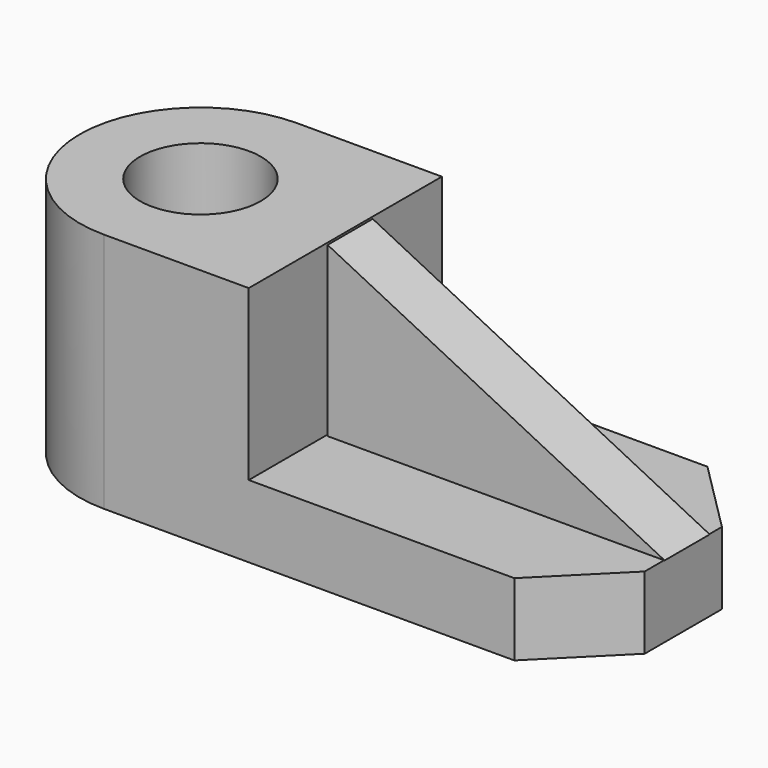
from build123d import *

# Parameters (mm, degrees)
F0_W     = 42
F0_H     = 7
F1_DEPTH = 9
F0_R     = 7.5
F2_DEPTH = 30
F4_DEPTH = 18.5
F5_DEPTH = 11.5


with BuildPart() as f1:
    # F0 (on Top) → F1 (new body)
    with BuildSketch(Plane.XY):
        Polygon((-18.315635, 11.012554), (-18.315635, -0.487446), (14.684365, -0.487446), (23.684365, 8.512554), (23.684365, 11.012554), align=None)
        Polygon((14.684365, 29.512554), (-18.315635, 29.512554), (-18.315635, 18.012554), (23.684365, 18.012554), (23.684365, 20.512554), align=None)
        with Locations((2.684365, 14.512554)):
            Rectangle(F0_W, F0_H)
    extrude(amount=F1_DEPTH)

    # F0 (on Top) → F2 (join)
    with BuildSketch(Plane.XY):
        with BuildLine():
            Line((-18.315635, 29.512554), (-36.315635, 29.512554))
            ThreePointArc((-36.315635, 29.512554), (-51.315635, 14.512554), (-36.315635, -0.487446))
            Line((-36.315635, -0.487446), (-18.315635, -0.487446))
            Line((-18.315635, -0.487446), (-18.315635, 11.012554))
            Line((-18.315635, 11.012554), (-18.315635, 18.012554))
            Line((-18.315635, 18.012554), (-18.315635, 29.512554))
        make_face()
        with Locations((-36.315635, 14.512554)):
            Circle(F0_R, mode=Mode.SUBTRACT)
    extrude(amount=F2_DEPTH)

    # F3 (on Front) → F4 (join)
    with BuildSketch(Plane.XZ):
        Polygon((23.775358, 9.021481), (-18.101137, 29.923748), (-18.101137, 8.923748), align=None)
    extrude(amount=-F4_DEPTH)

    # F4_face (on face) → F5 (cut)
    with BuildSketch(Plane(origin=(-4.133589, 0, 15.976161), x_dir=(1, 0, 0), z_dir=(0, -1, 0))):
        Polygon((18.704939, -6.976161), (27.908947, -6.95468), (-13.967548, 13.947587), (-13.967548, -6.976161), align=None)
    extrude(amount=-F5_DEPTH, mode=Mode.SUBTRACT)


solid = f1.part
